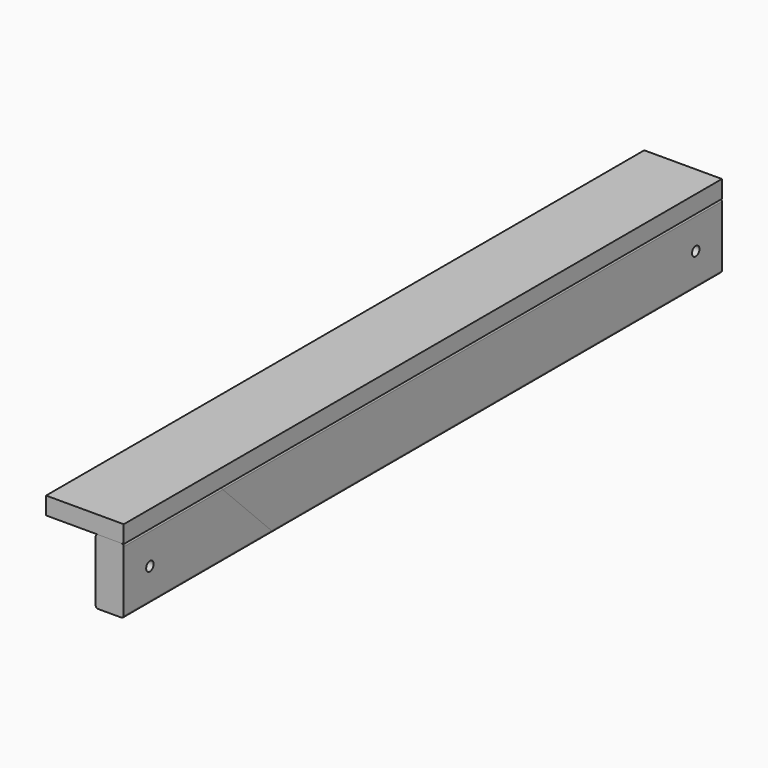
from build123d import *

# Parameters (mm, degrees)
F1_DEPTH       = 38.1
F2_R           = 3.175
F4_DEPTH       = 38.1
F5_R           = 3.175
F7_DEPTH       = 23.8125
F9_W           = 105.537
F9_H           = 1016
F10_DEPTH      = 23.8125
F11_R          = 6.35
F12_DEPTH      = 67.438
F12_DEPTH_BACK = 38.101


with BuildPart() as f1:
    # F0 (on Right) → F1 (new body)
    with BuildSketch(Plane.YZ):
        Polygon((583.6059013654, 45.071807631), (-267.2940986346, 45.071807631), (-178.3940986346, -43.828192369), (583.6059013654, -43.828192369), align=None)
    extrude(amount=F1_DEPTH)

    # F2
    f2_edges = [f1.edges().sort_by_distance(p)[0] for p in [
        (38.1, 158.155901, 45.071808),
        (0, 158.155901, 45.071808),
        (38.1, 202.605901, -43.828192),
        (0, 202.605901, -43.828192),
    ]]
    fillet(f2_edges, radius=F2_R)


with BuildPart() as f4:
    # F3 (on Right) → F4 (new body)
    with BuildSketch(Plane.YZ):
        Polygon((-432.3940986346, -43.828192369), (-178.3940986346, -43.828192369), (-267.2940986346, 45.071807631), (-432.3940986346, 45.071807631), align=None)
    extrude(amount=F4_DEPTH)

    # F5
    f5_edges = [f4.edges().sort_by_distance(p)[0] for p in [
        (38.1, -349.844099, 45.071808),
        (0, -349.844099, 45.071808),
        (38.1, -305.394099, -43.828192),
        (0, -305.394099, -43.828192),
    ]]
    fillet(f5_edges, radius=F5_R)


with BuildPart() as f7:
    # F6 (on Right) → F7 (new body)
    with BuildSketch(Plane.YZ):
        Polygon((583.6059013654, -43.828192369), (583.6059013654, 45.071807631), (75.6059013654, 45.071807631), (75.6059013654, 0.621807631), (120.0559013654, -43.828192369), align=None)
    extrude(amount=-F7_DEPTH)


with BuildPart() as f10:
    # F9 (on offset) → F10 (new body)
    with BuildSketch(Plane.XY.offset(45.071807631)):
        with Locations((-14.6685, 75.6059013654)):
            Rectangle(F9_W, F9_H)
    extrude(amount=F10_DEPTH)


with BuildPart() as f12_tool:
    # F11 (on Right) → F12 (new body, two sides)
    with BuildSketch(Plane.YZ) as f12_sk:
        with Locations((-387.9440986346, 0.621807631)):
            Circle(F11_R)
        with Locations((539.1559013654, 0.621807631)):
            Circle(F11_R)
    extrude(amount=-F12_DEPTH)
    extrude(f12_sk.sketch, amount=F12_DEPTH_BACK)


with BuildPart() as f1_1:
    add(f1.part)

    # F12: cut by f12_tool
    add(f12_tool.part, mode=Mode.SUBTRACT)


with BuildPart() as f4_1:
    add(f4.part)

    # F12: cut by f12_tool
    add(f12_tool.part, mode=Mode.SUBTRACT)


with BuildPart() as f7_1:
    add(f7.part)

    # F12: cut by f12_tool
    add(f12_tool.part, mode=Mode.SUBTRACT)


solid = Compound([f10.part, f1_1.part, f4_1.part, f7_1.part])
